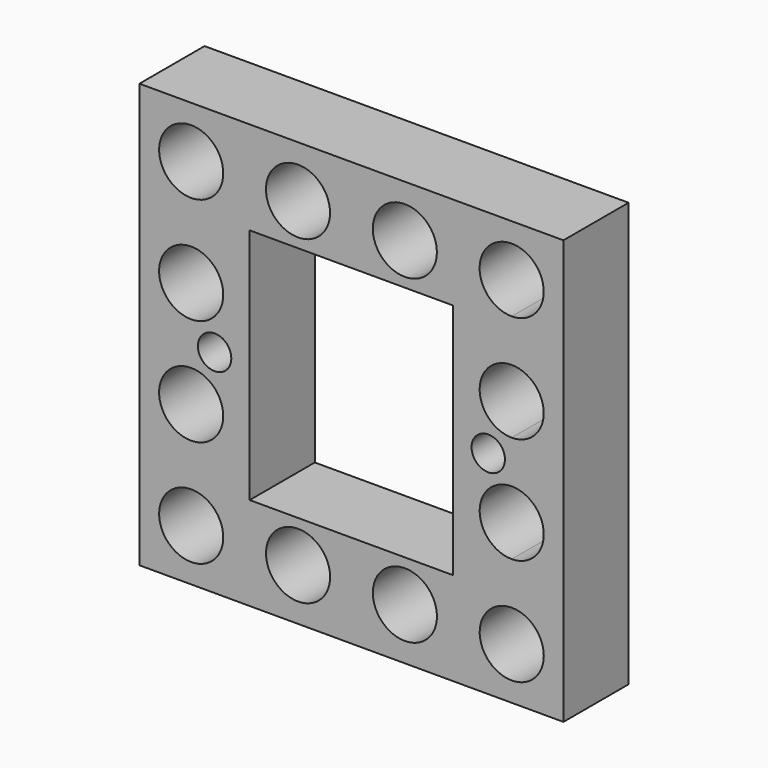
from build123d import *

# Parameters (mm, degrees)
F0_W     = 31.75
F0_H     = 31.75
F0_R     = 2.4
F0_R_2   = 1.25
F1_DEPTH = 6.096


with BuildPart() as f1:
    # F0 (on Front) → F1 (new body)
    with BuildSketch(Plane.XZ):
        with Locations((1.178973, -0.600334)):
            Rectangle(F0_W, F0_H)
        with Locations((-10.820051, -12.601834)):
            Circle(F0_R, mode=Mode.SUBTRACT)
        with Locations((-2.819051, -12.601834)):
            Circle(F0_R, mode=Mode.SUBTRACT)
        with Locations((-10.822527, -4.600834)):
            Circle(F0_R, mode=Mode.SUBTRACT)
        with Locations((5.181949, -12.601834)):
            Circle(F0_R, mode=Mode.SUBTRACT)
        with BuildLine():
            ThreePointArc((15.581959, -12.601834), (11.48506, -14.299048), (13.181513, -10.201834))
            ThreePointArc((13.181513, -10.201834), (14.878857, -10.90462), (15.581959, -12.601834))
        make_face(mode=Mode.SUBTRACT)
        Polygon((1.178973, 8.289666), (8.798973, 8.289666), (8.798973, -0.600334), (8.798973, -9.490334), (1.178973, -9.490334), (-6.441027, -9.490334), (-6.441027, -0.600334), (-6.441027, 8.289666), align=None, mode=Mode.SUBTRACT)
        with BuildLine():
            ThreePointArc((13.180919, -7.000834), (10.780473, -4.60128), (13.180027, -2.200834))
            ThreePointArc((13.180027, -2.200834), (14.877371, -2.90362), (15.580473, -4.600834))
            ThreePointArc((15.580473, -4.600834), (14.877687, -6.297733), (13.180919, -7.000834))
        make_face(mode=Mode.SUBTRACT)
        with Locations((-9.066677, -0.600334)):
            Circle(F0_R_2, mode=Mode.SUBTRACT)
        with Locations((-10.822527, 3.400166)):
            Circle(F0_R, mode=Mode.SUBTRACT)
        with Locations((-10.822527, 11.401166)):
            Circle(F0_R, mode=Mode.SUBTRACT)
        with Locations((-2.822518, 11.401166)):
            Circle(F0_R, mode=Mode.SUBTRACT)
        with Locations((11.424623, -0.600334)):
            Circle(F0_R_2, mode=Mode.SUBTRACT)
        with BuildLine():
            ThreePointArc((13.179432, 1.00194), (10.778987, 3.401495), (13.178541, 5.80194))
            ThreePointArc((13.178541, 5.80194), (14.875885, 5.099154), (15.578987, 3.40194))
            ThreePointArc((15.578987, 3.40194), (14.8762, 1.705042), (13.179432, 1.00194))
        make_face(mode=Mode.SUBTRACT)
        with Locations((5.177492, 11.401166)):
            Circle(F0_R, mode=Mode.SUBTRACT)
        with BuildLine():
            ThreePointArc((13.177947, 9.001166), (11.480287, 13.098064), (15.577501, 11.401166))
            ThreePointArc((15.577501, 11.401166), (14.874715, 9.704267), (13.177947, 9.001166))
        make_face(mode=Mode.SUBTRACT)
    extrude(amount=F1_DEPTH)


solid = f1.part
